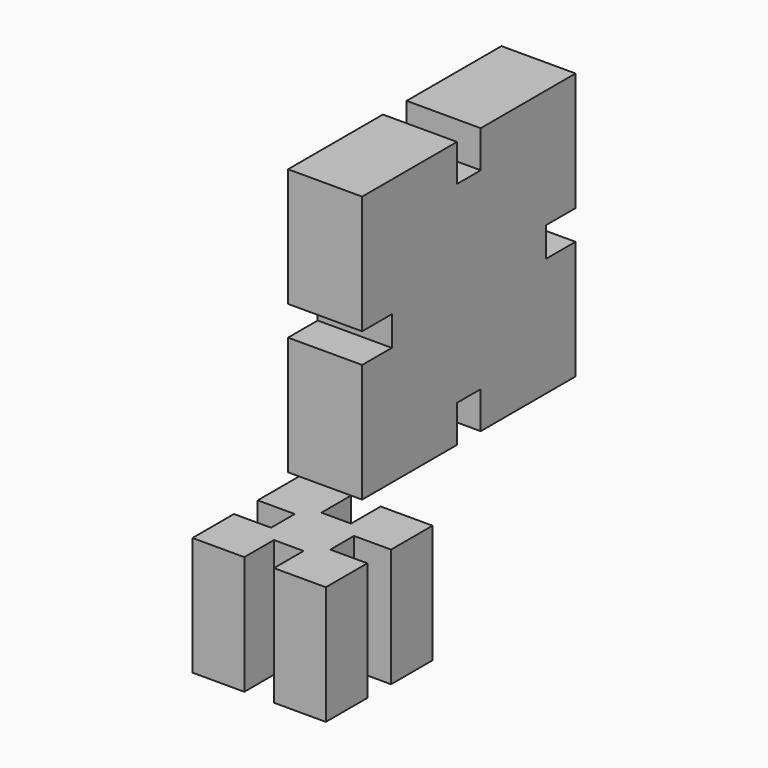
from build123d import *

# Parameters (mm, degrees)
F1_DEPTH = 40
F3_DEPTH = 25


with BuildPart() as f1:
    # F0 (on Top) → F1 (new body)
    with BuildSketch(Plane.XY):
        Polygon((17.5, 45), (0, 45), (0, 27.5), (12.5, 27.5), (12.5, 17.5), (0, 17.5), (0, 0), (17.5, 0), (17.5, 12.5), (27.5, 12.5), (27.5, 0), (45, 0), (45, 17.5), (32.5, 17.5), (32.5, 27.5), (45, 27.5), (45, 45), (27.5, 45), (27.5, 32.5), (17.5, 32.5), align=None)
    extrude(amount=F1_DEPTH)


with BuildPart() as f3:
    # F2 (on Right) → F3 (new body)
    with BuildSketch(Plane.YZ):
        Polygon((-108.4745913285, 62.0678981508), (-148.4745913285, 62.0678981508), (-148.4745913285, 22.0678981508), (-135.9745913285, 22.0678981508), (-135.9745913285, 12.0678981508), (-148.4745913285, 12.0678981508), (-148.4745913285, -27.9321018492), (-108.4745913285, -27.9321018492), (-108.4745913285, -15.4321018492), (-98.4745913285, -15.4321018492), (-98.4745913285, -27.9321018492), (-58.4745913285, -27.9321018492), (-58.4745913285, 12.0678981508), (-70.9745913285, 12.0678981508), (-70.9745913285, 22.0678981508), (-58.4745913285, 22.0678981508), (-58.4745913285, 62.0678981508), (-98.4745913285, 62.0678981508), (-98.4745913285, 49.5678981508), (-108.4745913285, 49.5678981508), align=None)
    extrude(amount=F3_DEPTH)


with BuildPart() as f3_1:
    # F6: moved
    add(f3.part.moved(Location((-3.75, 193.4745913285, 67.9321018492))))


solid = Compound([f1.part, f3_1.part])
